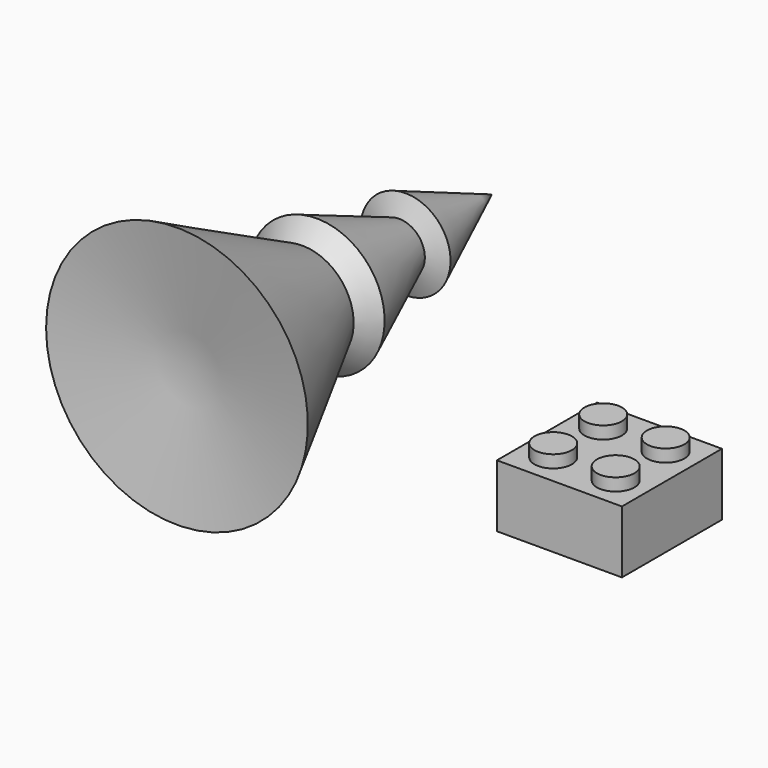
from build123d import *

# Parameters (mm, degrees)
F0_W     = 10
F0_H     = 10
F1_DEPTH = 5
F2_R     = 1.5
F3_DEPTH = 1
F4_W     = 8.2
F4_H     = 8.2
F5_DEPTH = 4
F6_R     = 1.891012
F6_R_2   = 1.125199
F7_DEPTH = 4


with BuildPart() as f1:
    # F0 (on Top) → F1 (new body)
    with BuildSketch(Plane.XY):
        with Locations((5, 5)):
            Rectangle(F0_W, F0_H)
    extrude(amount=F1_DEPTH)

    # F2 (on face) → F3 (join)
    with BuildSketch(Plane.XY.offset(5)):
        with Locations((2.5, 7.5)):
            Circle(F2_R)
        with Locations((2.5, 2.5)):
            Circle(F2_R)
        with Locations((7.5, 2.5)):
            Circle(F2_R)
        with Locations((7.5, 7.5)):
            Circle(F2_R)
    extrude(amount=F3_DEPTH)

    # F4 (on Top) → F5 (cut)
    with BuildSketch(Plane.XY):
        with Locations((5, 5)):
            Rectangle(F4_W, F4_H)
    extrude(amount=F5_DEPTH, mode=Mode.SUBTRACT)

    # F6 (on face) → F7 (join, through all)
    with BuildSketch(Plane(origin=(0, 0, 4), x_dir=(1, 0, 0), z_dir=(0, 0, -1))):
        with Locations((5, -5)):
            Circle(F6_R)
        with Locations((5, -5)):
            Circle(F6_R_2, mode=Mode.SUBTRACT)
    extrude(amount=F7_DEPTH)


with BuildPart() as f9:
    # F8 (on Top) → F9 (revolve)
    with BuildSketch(Plane.XY):
        Polygon((-39.188411, 3.896967), (-28.715698, 5.426282), (-28.715698, 35.393404), (-32.313937, 26.757635), (-30.771092, 26.114782), (-34.153337, 17.867319), (-32.826483, 16.425073), align=None)
    revolve(axis=Axis((-28.715698, 20.409843, 0), (0, -1, 0)))


solid = Compound([f1.part, f9.part])
